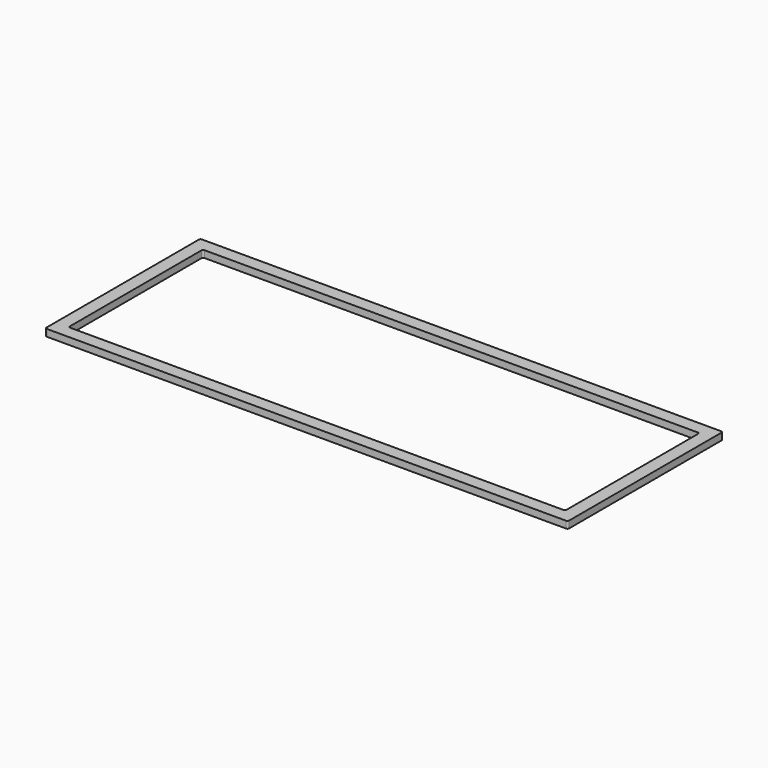
from build123d import *

# Parameters (mm, degrees)
SKETCH_W    = 302
SKETCH_H    = 112
SKETCH_W_2  = 287
SKETCH_H_2  = 97
PAD_DEPTH   = 4
FILLET_R    = 1
FILLET001_R = 1
FILLET002_R = 1
FILLET003_R = 1
FILLET004_R = 1
FILLET005_R = 1
FILLET006_R = 1
FILLET007_R = 1


with BuildPart() as part:
    # Sketch → Pad (new body)
    with BuildSketch(Plane.XY):
        Rectangle(SKETCH_W, SKETCH_H)
        Rectangle(SKETCH_W_2, SKETCH_H_2, mode=Mode.SUBTRACT)
    extrude(amount=PAD_DEPTH)

    # Fillet
    fillet_edges = [part.edges().sort_by_distance(p)[0] for p in [
        (-151, -56, 2),
    ]]
    fillet(fillet_edges, radius=FILLET_R)

    # Fillet001
    fillet001_edges = [part.edges().sort_by_distance(p)[0] for p in [
        (151, -56, 2),
    ]]
    fillet(fillet001_edges, radius=FILLET001_R)

    # Fillet002
    fillet002_edges = [part.edges().sort_by_distance(p)[0] for p in [
        (-143.5, 48.5, 2),
    ]]
    fillet(fillet002_edges, radius=FILLET002_R)

    # Fillet003
    fillet003_edges = [part.edges().sort_by_distance(p)[0] for p in [
        (151, 56, 2),
    ]]
    fillet(fillet003_edges, radius=FILLET003_R)

    # Fillet004
    fillet004_edges = [part.edges().sort_by_distance(p)[0] for p in [
        (-151, 56, 2),
    ]]
    fillet(fillet004_edges, radius=FILLET004_R)

    # Fillet005
    fillet005_edges = [part.edges().sort_by_distance(p)[0] for p in [
        (143.5, -48.5, 2),
    ]]
    fillet(fillet005_edges, radius=FILLET005_R)

    # Fillet006
    fillet006_edges = [part.edges().sort_by_distance(p)[0] for p in [
        (143.5, 48.5, 2),
    ]]
    fillet(fillet006_edges, radius=FILLET006_R)

    # Fillet007
    fillet007_edges = [part.edges().sort_by_distance(p)[0] for p in [
        (-143.5, -48.5, 2),
    ]]
    fillet(fillet007_edges, radius=FILLET007_R)


solid = part.part
